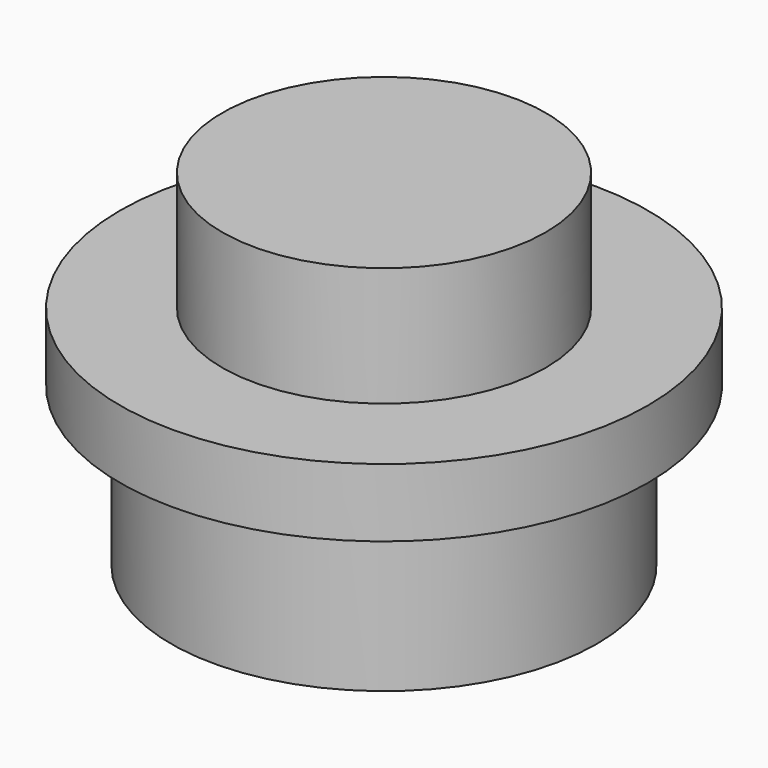
from build123d import *

# Parameters (mm, degrees)
F0_R     = 3.937
F1_DEPTH = 1.016
F2_R     = 2.413
F3_DEPTH = 1.778
F4_R     = 3.175
F4_R_2   = 2.413
F5_DEPTH = 2.3622


with BuildPart() as f1:
    # F0 (on Top) → F1 (new body)
    with BuildSketch(Plane.XY):
        Circle(F0_R)
    extrude(amount=F1_DEPTH)

    # F2 (on face) → F3 (join)
    with BuildSketch(Plane.XY.offset(1.016)):
        Circle(F2_R)
    extrude(amount=F3_DEPTH)

    # F4 (on face) → F5 (join)
    with BuildSketch(Plane(origin=(0, 0, 0), x_dir=(1, 0, 0), z_dir=(0, 0, -1))):
        Circle(F4_R)
        Circle(F4_R_2, mode=Mode.SUBTRACT)
    extrude(amount=F5_DEPTH)


solid = f1.part
